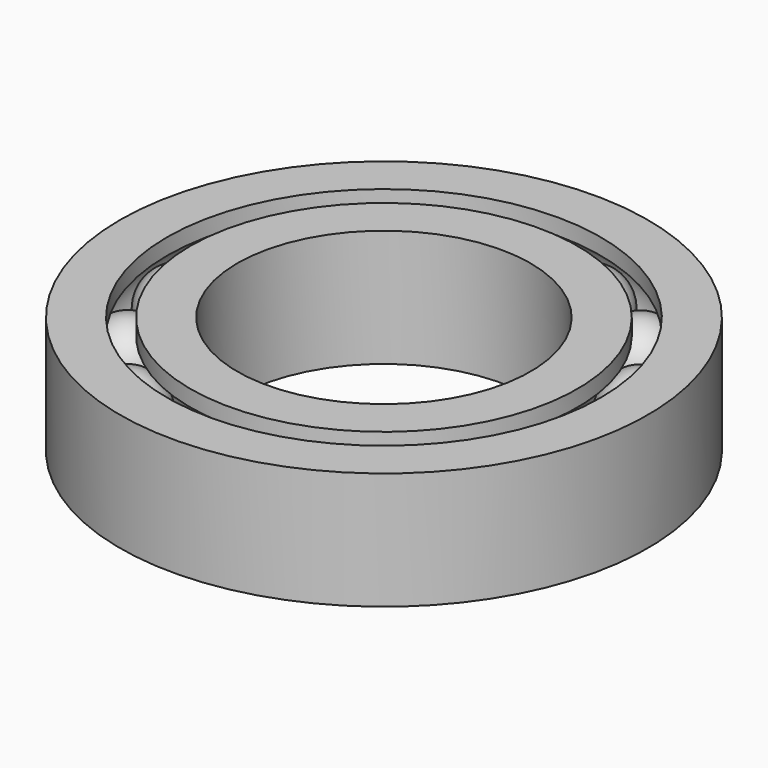
from build123d import *

# Parameters (mm, degrees)
F3_COUNT = 14


with BuildPart() as f1:
    # F0 (on Front) → F1 (revolve)
    with BuildSketch(Plane.XZ):
        with BuildLine():
            ThreePointArc((-9.398, -1.836018), (-10.795, 0), (-9.398, 1.836018))
            Line((-9.398, 1.836018), (-9.398, 2.54))
            Line((-9.398, 2.54), (-11.43, 2.54))
            Line((-11.43, 2.54), (-11.43, -2.54))
            Line((-11.43, -2.54), (-9.398, -2.54))
            Line((-9.398, -2.54), (-9.398, -1.836018))
        make_face()
        with BuildLine():
            Line((-6.35, -2.54), (-6.35, 0))
            Line((-6.35, 0), (-6.35, 2.54))
            Line((-6.35, 2.54), (-8.382, 2.54))
            Line((-8.382, 2.54), (-8.382, 1.836018))
            ThreePointArc((-8.382, 1.836018), (-6.985, 0), (-8.382, -1.836018))
            Line((-8.382, -1.836018), (-8.382, -2.54))
            Line((-8.382, -2.54), (-6.35, -2.54))
        make_face()
    revolve(axis=Axis((0, 0, 0.281443), (0, 0, 1)))


with BuildPart() as f2:
    # F0 (on Front) → F2 (revolve)
    with BuildSketch(Plane.XZ):
        with BuildLine():
            ThreePointArc((-7.3025, 0), (-7.767468, 1.122532), (-8.89, 1.5875))
            Line((-8.89, 1.5875), (-8.89, -1.5875))
            ThreePointArc((-8.89, -1.5875), (-7.767468, -1.122532), (-7.3025, 0))
        make_face()
    revolve(axis=Axis((-8.89, 0, 0), (0, 0, -1)))


with BuildPart() as f3_1:
    # F3: instance of F2
    add(f2.part.rotate(Axis((0, 0, 0.281443), (0, 0, 1)), 1 * 360 / F3_COUNT))


with BuildPart() as f3_2:
    # F3: instance of F2
    add(f2.part.rotate(Axis((0, 0, 0.281443), (0, 0, 1)), 2 * 360 / F3_COUNT))


with BuildPart() as f3_3:
    # F3: instance of F2
    add(f2.part.rotate(Axis((0, 0, 0.281443), (0, 0, 1)), 3 * 360 / F3_COUNT))


with BuildPart() as f3_4:
    # F3: instance of F2
    add(f2.part.rotate(Axis((0, 0, 0.281443), (0, 0, 1)), 4 * 360 / F3_COUNT))


with BuildPart() as f3_5:
    # F3: instance of F2
    add(f2.part.rotate(Axis((0, 0, 0.281443), (0, 0, 1)), 5 * 360 / F3_COUNT))


with BuildPart() as f3_6:
    # F3: instance of F2
    add(f2.part.rotate(Axis((0, 0, 0.281443), (0, 0, 1)), 6 * 360 / F3_COUNT))


with BuildPart() as f3_7:
    # F3: instance of F2
    add(f2.part.rotate(Axis((0, 0, 0.281443), (0, 0, 1)), 7 * 360 / F3_COUNT))


with BuildPart() as f3_8:
    # F3: instance of F2
    add(f2.part.rotate(Axis((0, 0, 0.281443), (0, 0, 1)), 8 * 360 / F3_COUNT))


with BuildPart() as f3_9:
    # F3: instance of F2
    add(f2.part.rotate(Axis((0, 0, 0.281443), (0, 0, 1)), 9 * 360 / F3_COUNT))


with BuildPart() as f3_10:
    # F3: instance of F2
    add(f2.part.rotate(Axis((0, 0, 0.281443), (0, 0, 1)), 10 * 360 / F3_COUNT))


with BuildPart() as f3_11:
    # F3: instance of F2
    add(f2.part.rotate(Axis((0, 0, 0.281443), (0, 0, 1)), 11 * 360 / F3_COUNT))


with BuildPart() as f3_12:
    # F3: instance of F2
    add(f2.part.rotate(Axis((0, 0, 0.281443), (0, 0, 1)), 12 * 360 / F3_COUNT))


with BuildPart() as f3_13:
    # F3: instance of F2
    add(f2.part.rotate(Axis((0, 0, 0.281443), (0, 0, 1)), 13 * 360 / F3_COUNT))


solid = Compound([f1.part, f2.part, f3_1.part, f3_2.part, f3_3.part, f3_4.part, f3_5.part, f3_6.part, f3_7.part, f3_8.part, f3_9.part, f3_10.part, f3_11.part, f3_12.part, f3_13.part])
